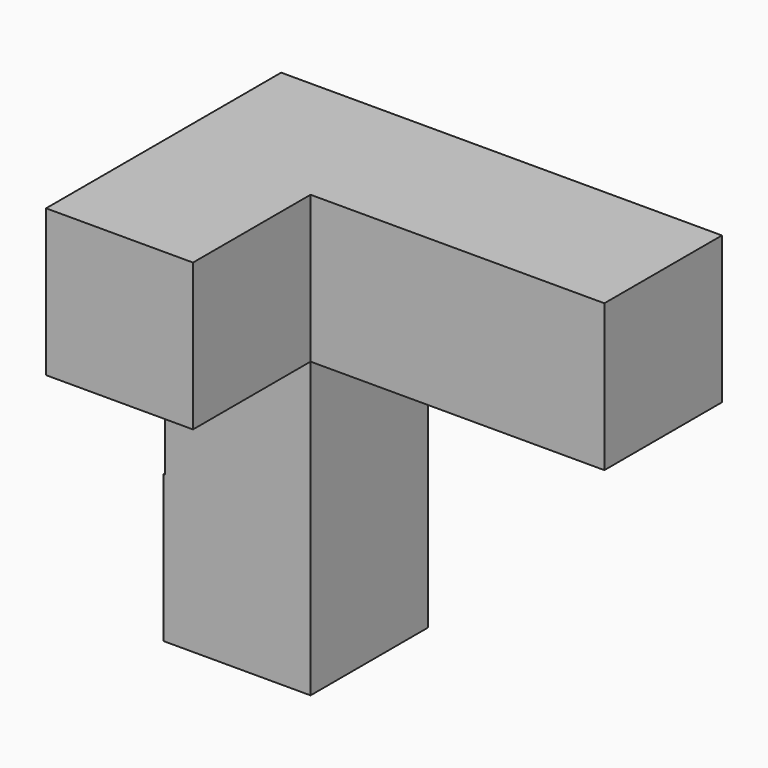
from build123d import *

# Parameters (mm, degrees)
F1_DEPTH  = 19.05
F0_W      = 18.850524
F0_H      = 19.05
F0_W_2    = 19.05
F1_FACE_W = 19.05
F1_FACE_H = 19.05
F2_DEPTH  = 19.05


with BuildPart() as f1:
    # F0 (on Front) → F1 (new body)
    with BuildSketch(Plane.XZ):
        Polygon((-18.850524, 0), (0, 0), (0, 19.05), (-19.05, 19.05), (-19.05, 0), align=None)
    extrude(amount=F1_DEPTH)

    # F0 (on Front) + F1_face (on face) → F2 (join)
    with BuildSketch(Plane.XZ):
        with Locations((-9.425262, -9.525)):
            Rectangle(F0_W, F0_H)
        Polygon((-18.850524, 0), (0, 0), (0, 19.05), (-19.05, 19.05), (-19.05, 0), align=None)
        with Locations((9.525, 9.525)):
            Rectangle(F0_W_2, F0_H)
        Polygon((0, -38.1), (0, -19.05), (-18.850524, -19.05), (-19.05, -19.05), (-19.05, -38.1), align=None)
        with Locations((28.575, 9.525)):
            Rectangle(F0_W_2, F0_H)
    with BuildSketch(Plane(origin=(-9.525, -19.05, 9.525), x_dir=(1, 0, 0), z_dir=(0, -1, 0))):
        Rectangle(F1_FACE_W, F1_FACE_H)
    extrude(amount=F2_DEPTH)


solid = f1.part
